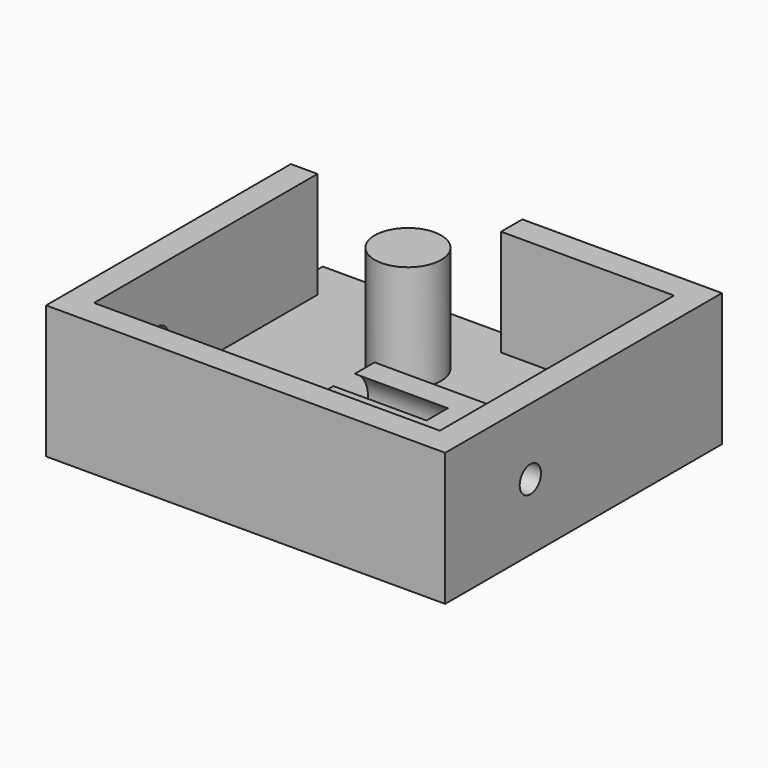
from build123d import *

# Parameters (mm, degrees)
F0_W      = 30
F0_H      = 26
F1_DEPTH  = 2
F3_DEPTH  = 8
F4_R      = 2.5
F5_DEPTH  = 8
F7_DEPTH  = 12
F9_DEPTH  = 5
F10_R     = 1
F11_DEPTH = 30.001


with BuildPart() as f1:
    # F0 (on Top) → F1 (new body)
    with BuildSketch(Plane.XY):
        Rectangle(F0_W, F0_H)
    extrude(amount=F1_DEPTH)

    # F2 (on face) → F3 (join)
    with BuildSketch(Plane.XY.offset(2)):
        Polygon((-15, 10), (-15, -13), (15, -13), (15, 13), (0, 13), (0, 11), (13, 11), (13, -11), (-13, -11), (-13, 10), align=None)
    extrude(amount=F3_DEPTH)

    # F4 (on face) → F5 (join, through all)
    with BuildSketch(Plane.XY.offset(2)):
        with Locations((-3, 6)):
            Circle(F4_R)
    extrude(amount=F5_DEPTH)

    # F6 (on face) → F7 (join)
    with BuildSketch(Plane(origin=(13, 0, 0), x_dir=(0, -1, 0), z_dir=(-1, 0, 0))):
        with BuildLine():
            Line((8.5, 0), (8.5, 5))
            ThreePointArc((8.5, 5), (8.3365275924, 6.0571582782), (7.8613807856, 7.0155644371))
            Line((7.8613807856, 7.0155644371), (6, 7.0155644371))
            ThreePointArc((6, 7.0155644371), (5, 2.75), (4, 7.0155644371))
            Line((4, 7.0155644371), (2.1386192144, 7.0155644371))
            ThreePointArc((2.1386192144, 7.0155644371), (1.6634724076, 6.0571582782), (1.5, 5))
            Line((1.5, 5), (1.5, 0))
            Line((1.5, 0), (8.5, 0))
        make_face()
    extrude(amount=F7_DEPTH)

    # F8 (on face) → F9 (join)
    with BuildSketch(Plane(origin=(13, 0, 0), x_dir=(0, -1, 0), z_dir=(-1, 0, 0))):
        with BuildLine():
            Line((1.5, 2), (8.5, 2))
            Line((8.5, 2), (8.5, 5))
            ThreePointArc((8.5, 5), (8.3365275924, 6.0571582782), (7.8613807856, 7.0155644371))
            Line((7.8613807856, 7.0155644371), (2.1386192144, 7.0155644371))
            ThreePointArc((2.1386192144, 7.0155644371), (1.6634724076, 6.0571582782), (1.5, 5))
            Line((1.5, 5), (1.5, 2))
        make_face()
    extrude(amount=F9_DEPTH)

    # F10 (on face) → F11 (cut, through all)
    with BuildSketch(Plane.YZ.offset(15)):
        with Locations((-5, 5)):
            Circle(F10_R)
    extrude(amount=-F11_DEPTH, mode=Mode.SUBTRACT)


solid = f1.part
